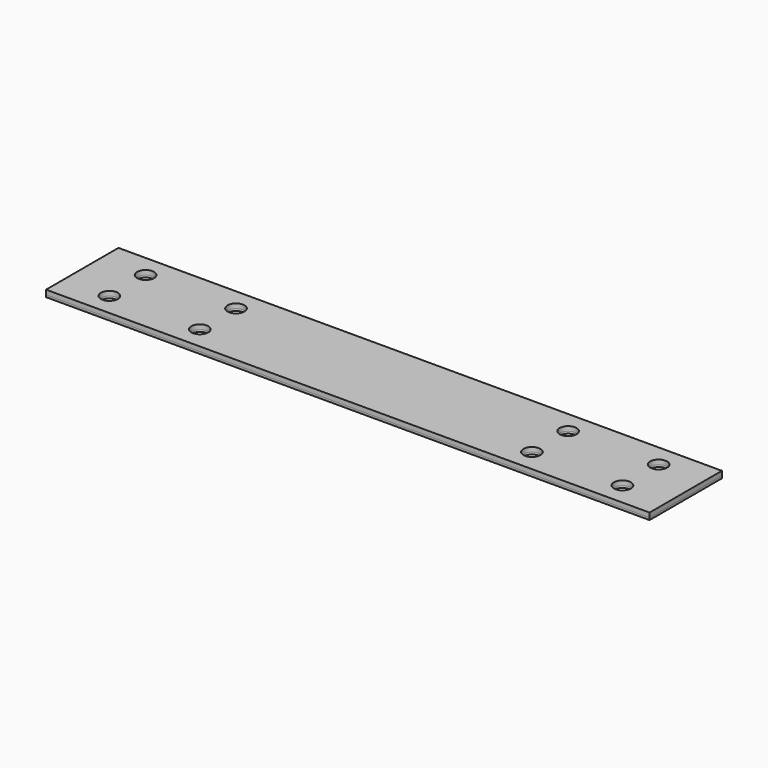
from build123d import *

# Parameters (mm, degrees)
F0_W     = 677.8625
F0_H     = 101.6
F0_R     = 9.525
F1_DEPTH = 5.08
F2_W     = 677.8625
F2_H     = 101.6
F2_R     = 9.525
F3_DEPTH = 2.413


with BuildPart() as f1:
    # F0 (on Top) → F1 (new body)
    with BuildSketch(Plane.XY):
        Rectangle(F0_W, F0_H)
        with Locations((-288.13125, -25.4)):
            Circle(F0_R, mode=Mode.SUBTRACT)
        with Locations((-186.53125, -25.4)):
            Circle(F0_R, mode=Mode.SUBTRACT)
        with Locations((186.53125, -25.4)):
            Circle(F0_R, mode=Mode.SUBTRACT)
        with Locations((288.13125, -25.4)):
            Circle(F0_R, mode=Mode.SUBTRACT)
        with Locations((-288.13125, 25.4)):
            Circle(F0_R, mode=Mode.SUBTRACT)
        with Locations((-186.53125, 25.4)):
            Circle(F0_R, mode=Mode.SUBTRACT)
        with Locations((186.53125, 25.4)):
            Circle(F0_R, mode=Mode.SUBTRACT)
        with Locations((288.13125, 25.4)):
            Circle(F0_R, mode=Mode.SUBTRACT)
    extrude(amount=F1_DEPTH)


with BuildPart() as f3:
    # F2 (on face) → F3 (new body)
    with BuildSketch(Plane(origin=(0, 0, 0), x_dir=(1, 0, 0), z_dir=(0, 0, -1))):
        Rectangle(F2_W, F2_H)
        with Locations((-288.13125, -25.4)):
            Circle(F2_R, mode=Mode.SUBTRACT)
        with Locations((-186.53125, -25.4)):
            Circle(F2_R, mode=Mode.SUBTRACT)
        with Locations((186.53125, -25.4)):
            Circle(F2_R, mode=Mode.SUBTRACT)
        with Locations((288.13125, -25.4)):
            Circle(F2_R, mode=Mode.SUBTRACT)
        with Locations((-288.13125, 25.4)):
            Circle(F2_R, mode=Mode.SUBTRACT)
        with Locations((-186.53125, 25.4)):
            Circle(F2_R, mode=Mode.SUBTRACT)
        with Locations((186.53125, 25.4)):
            Circle(F2_R, mode=Mode.SUBTRACT)
        with Locations((288.13125, 25.4)):
            Circle(F2_R, mode=Mode.SUBTRACT)
    extrude(amount=F3_DEPTH)


solid = Compound([f1.part, f3.part])
